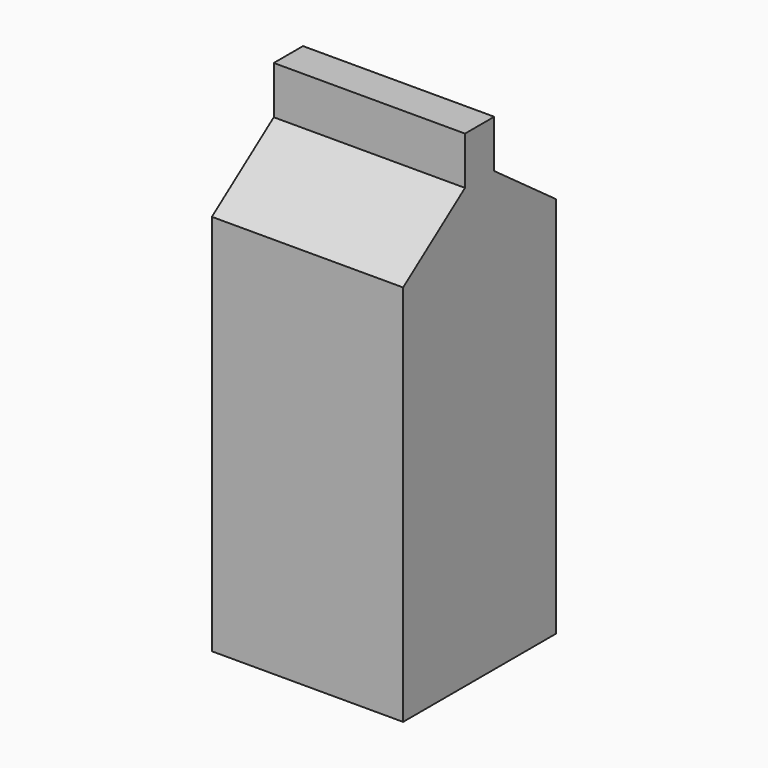
from build123d import *

# Parameters (mm, degrees)
F1_DEPTH      = 25.4
F1_DEPTH_BACK = 25.4


with BuildPart() as f1:
    # F0 (on Right) → F1 (new body, two sides)
    with BuildSketch(Plane.YZ) as f1_sk:
        Polygon((-25.4, 2.928047), (-25.4, -98.671953), (25.4, -98.671953), (25.4, 0), (25.4, 2.928047), (4.851199, 17.858109), (4.851199, 30.558109), (0, 30.558109), (-4.851199, 30.558109), (-4.851199, 17.858109), align=None)
    extrude(amount=F1_DEPTH)
    extrude(f1_sk.sketch, amount=-F1_DEPTH_BACK)


solid = f1.part
